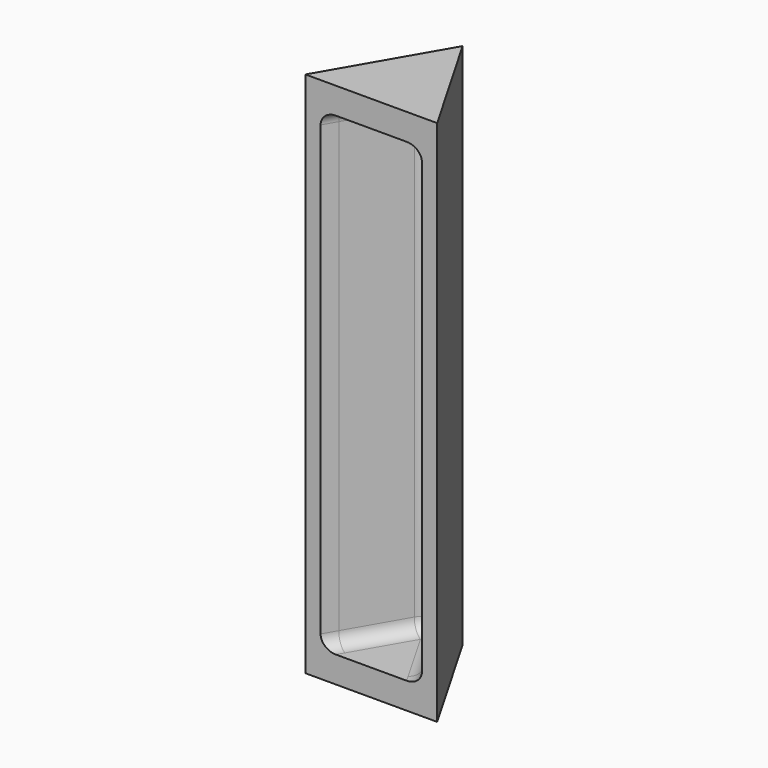
from build123d import *

# Parameters (mm, degrees)
F1_DEPTH = 50.8
F4_DEPTH = 45.72
F5_R     = 1.27


with BuildPart() as f1:
    # F0 (on Top) → F1 (new body)
    with BuildSketch(Plane.XY):
        Polygon((-6.35, 0), (0, 0), (0, 10.9985226281), align=None)
        Polygon((0, 10.9985226281), (0, 0), (6.35, 0), align=None)
    extrude(amount=F1_DEPTH)

    # F3 (on offset) → F4 (cut)
    with BuildSketch(Plane.XY.offset(48.26)):
        Polygon((0, 8.4585226281), (-4.1502954744, 1.27), (4.1502954744, 1.27), align=None)
        Polygon((4.1502954744, 1.27), (-4.1502954744, 1.27), (-4.8835303163, 0), (4.8835303163, 0), align=None)
    extrude(amount=-F4_DEPTH, mode=Mode.SUBTRACT)

    # F5
    f5_edges = [f1.edges().sort_by_distance(p)[0] for p in [
        (0, 8.458523, 25.4),
        (2.441765, 4.229261, 2.54),
        (-2.441765, 4.229261, 2.54),
        (-2.441765, 4.229261, 48.26),
        (2.441765, 4.229261, 48.26),
    ]]
    fillet(f5_edges, radius=F5_R)


solid = f1.part
